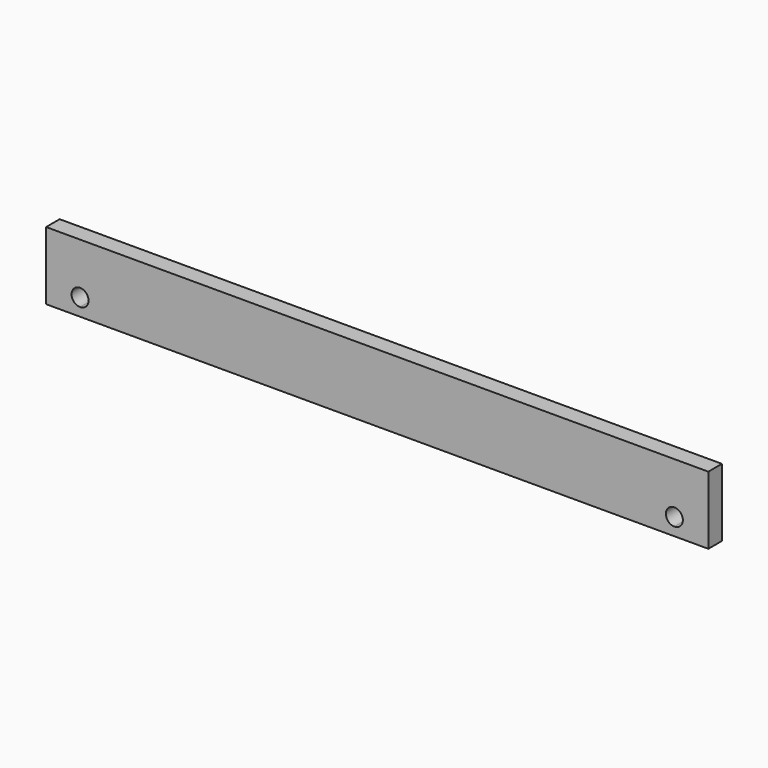
from build123d import *

# Parameters (mm, degrees)
F0_W     = 990.6
F0_H     = 101.6
F1_DEPTH = 25.4
F3_DEPTH = 25.401


with BuildPart() as f1:
    # F0 (on Front) → F1 (new body)
    with BuildSketch(Plane.XZ):
        with Locations((495.3, 50.8)):
            Rectangle(F0_W, F0_H)
    extrude(amount=F1_DEPTH)

    # F2 (on face) → F3 (cut, through all)
    with BuildSketch(Plane.XZ.offset(25.4)):
        with BuildLine():
            ThreePointArc((63.5, 25.4), (59.780256, 34.380256), (50.8, 38.1))
            Line((50.8, 38.1), (50.8, 12.7))
            ThreePointArc((50.8, 12.7), (59.780256, 16.419744), (63.5, 25.4))
        make_face()
        with BuildLine():
            Line((50.8, 12.7), (50.8, 38.1))
            ThreePointArc((50.8, 38.1), (38.1, 25.4), (50.8, 12.7))
        make_face()
        with BuildLine():
            ThreePointArc((952.5, 25.4), (948.780256, 34.380256), (939.8, 38.1))
            Line((939.8, 38.1), (939.8, 12.7))
            ThreePointArc((939.8, 12.7), (948.780256, 16.419744), (952.5, 25.4))
        make_face()
        with BuildLine():
            Line((939.8, 12.7), (939.8, 38.1))
            ThreePointArc((939.8, 38.1), (927.1, 25.4), (939.8, 12.7))
        make_face()
    extrude(amount=-F3_DEPTH, mode=Mode.SUBTRACT)


solid = f1.part
